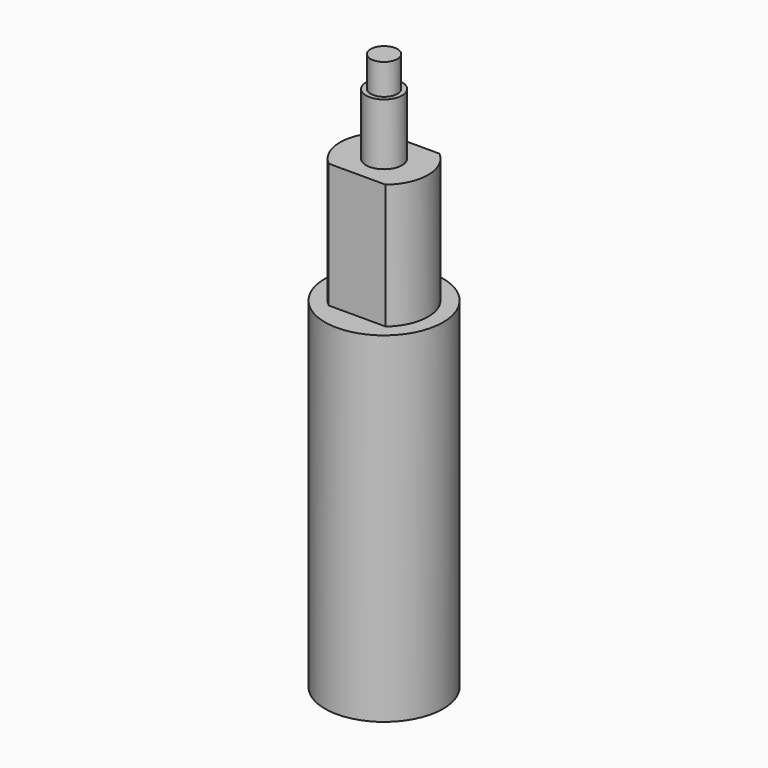
from build123d import *

# Parameters (mm, degrees)
SKETCH002_R  = 1.7
PAD002_DEPTH = 5.8
SKETCH003_R  = 1.27
PAD003_DEPTH = 2.9
PAD_DEPTH    = 11.8
SKETCH001_R  = 5.58
PAD001_DEPTH = 32.15


with BuildPart() as metal:
    # Sketch002 → Pad002 (new body)
    with BuildSketch(Plane.XY):
        Circle(SKETCH002_R)
    extrude(amount=PAD002_DEPTH)

    # Sketch003 (on Face3 of Pad002) → Pad003 (join)
    with BuildSketch(Plane.XY.offset(5.8)):
        Circle(SKETCH003_R)
    extrude(amount=PAD003_DEPTH)


with BuildPart() as metal_1:
    # Body001 placement: moved
    add(metal.part.moved(Location((0, 0, 11.8))))


with BuildPart() as obj1:
    # Sketch → Pad (new body)
    with BuildSketch(Plane.XY):
        with BuildLine():
            ThreePointArc((-2.695663, 3.175), (-4.165, 0), (-2.695663, -3.175))
            Line((-2.695663, -3.175), (2.695663, -3.175))
            ThreePointArc((2.695663, -3.175), (4.165, 0), (2.695663, 3.175))
            Line((-2.695663, 3.175), (2.695663, 3.175))
        make_face()
    extrude(amount=PAD_DEPTH)

    # Sketch001 (on Sketch) → Pad001 (join)
    with BuildSketch(Plane.XY):
        Circle(SKETCH001_R)
    extrude(amount=-PAD001_DEPTH)

    # Fusion: union metal
    add(metal_1.part)


solid = obj1.part
